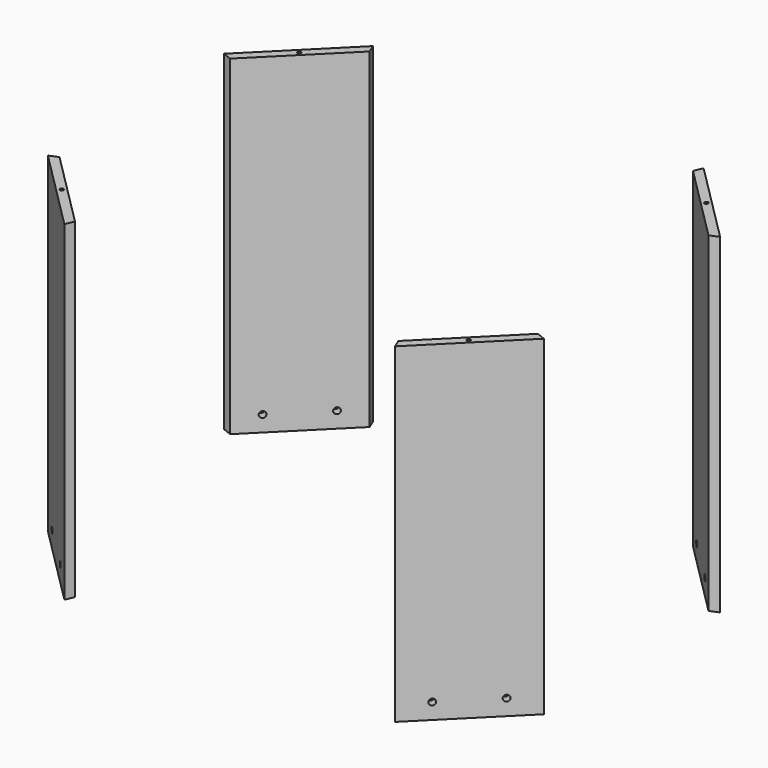
from build123d import *

# Parameters (mm, degrees)
F1_DEPTH       = 240
F2_DEPTH       = 240
F3_DEPTH       = 240
F4_DEPTH       = 240
F9_D           = 4.5
F9_DEPTH       = 12
F9_TIP         = 1.3519363928
F9_ON_F5_D     = 4.5
F9_ON_F5_DEPTH = 12
F9_ON_F5_TIP   = 1.3519363928
F9_ON_F6_D     = 4.5
F9_ON_F6_DEPTH = 12
F9_ON_F6_TIP   = 1.3519363928
F9_ON_F7_D     = 4.5
F9_ON_F7_DEPTH = 12
F9_ON_F7_TIP   = 1.3519363928
F14_D          = 2.7051
F14_ON_F11_D   = 2.7051
F14_ON_F10_D   = 2.7051
F14_ON_F12_D   = 2.7051


with BuildPart() as f1:
    # F0 (on Top) → F1 (new body)
    with BuildSketch(Plane.XY):
        Polygon((-180, 60), (-120, 0), (-117.3697438789, 6.35), (-173.65, 62.6302561211), align=None)
    extrude(amount=F1_DEPTH)

    # F9 on F5
    with Locations(Plane(origin=(-60, -60, 0), x_dir=(0.7071067812, -0.7071067812, 0), z_dir=(-0.7071067812, -0.7071067812, 0))):
        with Locations((-106.066017178, 11.51), (-148.4924240492, 11.51)):
            Hole(F9_ON_F5_D / 2, depth=F9_ON_F5_DEPTH)
            with Locations((0, 0, -(F9_ON_F5_DEPTH + F9_ON_F5_TIP / 2))):  # 118° drill point
                Cone(0, F9_ON_F5_D / 2, F9_ON_F5_TIP, mode=Mode.SUBTRACT)

    # F14 on F10 (through all)
    with Locations(Plane(origin=(0, 0, 0), x_dir=(1, 0, 0), z_dir=(0, 0, -1))):
        with Locations((-147.7549359697, -32.2450640303)):
            Hole(F14_ON_F10_D / 2)


with BuildPart() as f2:
    # F0 (on Top) → F2 (new body)
    with BuildSketch(Plane.XY):
        Polygon((-120, 280), (-180, 220), (-173.65, 217.3697438789), (-117.3697438789, 273.65), align=None)
    extrude(amount=F2_DEPTH)

    # F9
    with Locations(Plane(origin=(-200, 200, 0), x_dir=(-0.7071067812, -0.7071067812, 0), z_dir=(-0.7071067812, 0.7071067812, 0))):
        with Locations((-91.9238815543, 11.51), (-49.4974746831, 11.51)):
            Hole(F9_D / 2, depth=F9_DEPTH)
            with Locations((0, 0, -(F9_DEPTH + F9_TIP / 2))):  # 118° drill point
                Cone(0, F9_D / 2, F9_TIP, mode=Mode.SUBTRACT)

    # F14 on F12 (through all)
    with Locations(Plane(origin=(0, 0, 0), x_dir=(1, 0, 0), z_dir=(0, 0, -1))):
        with Locations((-147.7549359697, -247.7549359697)):
            Hole(F14_ON_F12_D / 2)


with BuildPart() as f3:
    # F0 (on Top) → F3 (new body)
    with BuildSketch(Plane.XY):
        Polygon((173.65, 217.3697438789), (180, 220), (120, 280), (117.3697438789, 273.65), align=None)
    extrude(amount=F3_DEPTH)

    # F9 on F7
    with Locations(Plane(origin=(200, 200, 0), x_dir=(-0.7071067812, 0.7071067812, 0), z_dir=(0.7071067812, 0.7071067812, 0))):
        with Locations((49.4974746831, 11.51), (91.9238815543, 11.51)):
            Hole(F9_ON_F7_D / 2, depth=F9_ON_F7_DEPTH)
            with Locations((0, 0, -(F9_ON_F7_DEPTH + F9_ON_F7_TIP / 2))):  # 118° drill point
                Cone(0, F9_ON_F7_D / 2, F9_ON_F7_TIP, mode=Mode.SUBTRACT)

    # F14 (through all)
    with Locations(Plane(origin=(0, 0, 0), x_dir=(1, 0, 0), z_dir=(0, 0, -1))):
        with Locations((147.7549359697, -247.7549359697)):
            Hole(F14_D / 2)


with BuildPart() as f4:
    # F0 (on Top) → F4 (new body)
    with BuildSketch(Plane.XY):
        Polygon((117.3697438789, 6.35), (120, 0), (180, 60), (173.65, 62.6302561211), align=None)
    extrude(amount=F4_DEPTH)

    # F9 on F6
    with Locations(Plane(origin=(60, -60, 0), x_dir=(0.7071067812, 0.7071067812, 0), z_dir=(0.7071067812, -0.7071067812, 0))):
        with Locations((148.4924240492, 11.51), (106.066017178, 11.51)):
            Hole(F9_ON_F6_D / 2, depth=F9_ON_F6_DEPTH)
            with Locations((0, 0, -(F9_ON_F6_DEPTH + F9_ON_F6_TIP / 2))):  # 118° drill point
                Cone(0, F9_ON_F6_D / 2, F9_ON_F6_TIP, mode=Mode.SUBTRACT)

    # F14 on F11 (through all)
    with Locations(Plane(origin=(0, 0, 0), x_dir=(1, 0, 0), z_dir=(0, 0, -1))):
        with Locations((147.7549359697, -32.2450640303)):
            Hole(F14_ON_F11_D / 2)


solid = Compound([f1.part, f2.part, f3.part, f4.part])
